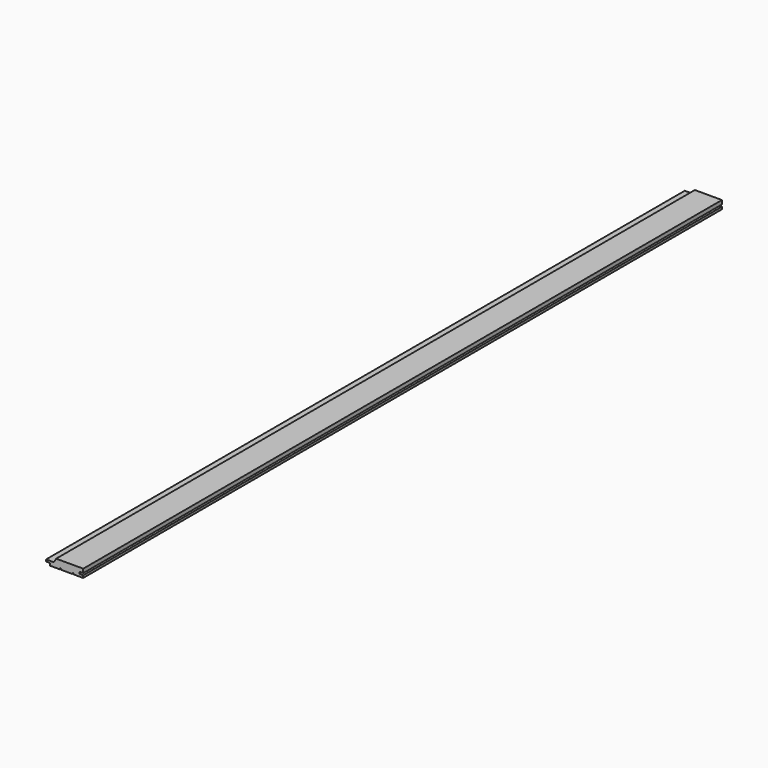
from build123d import *

# Parameters (mm, degrees)
F1_DEPTH = 2042
F2_W     = 3
F2_H     = 3
F3_DEPTH = 2042.001


with BuildPart() as f1:
    # F0 (on Front) → F1 (new body)
    with BuildSketch(Plane.XZ):
        Polygon((47.5, 10.5), (-21.726497, 10.5), (-27.5, 0.5), (-47.5, 0.5), (-47.5, -4.5), (-37.5, -4.5), (-37.5, -10.5), (47.5, -10.5), (47.5, -4.5), (37.5, -4.5), (37.5, 0.5), (47.5, 0.5), align=None)
    extrude(amount=F1_DEPTH)

    # F2 (on face) → F3 (cut, through all)
    with BuildSketch(Plane.XZ.offset(2042)):
        with Locations((-11, -9)):
            Rectangle(F2_W, F2_H)
        with Locations((21, -9)):
            Rectangle(F2_W, F2_H)
    extrude(amount=-F3_DEPTH, mode=Mode.SUBTRACT)


solid = f1.part
